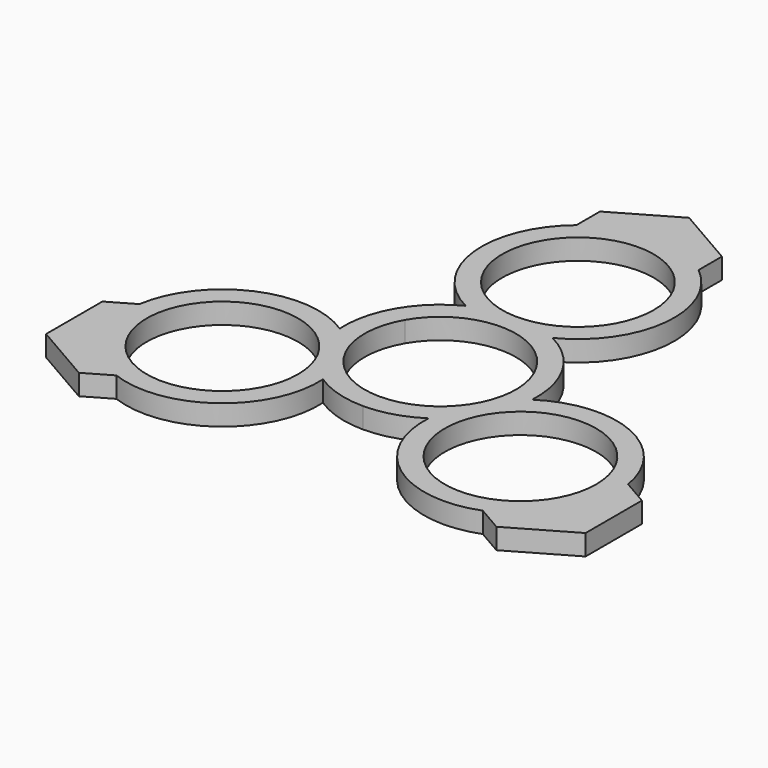
from build123d import *

# Parameters (mm, degrees)
F0_R     = 11
F1_DEPTH = 3


with BuildPart() as f1:
    # F0 (on Top) → F1 (new body)
    with BuildSketch(Plane.XY):
        with BuildLine():
            ThreePointArc((-26.5772530672, -25.6045196536), (-13.359413403, -23.7807642853), (-7.6729374941, -11.710082417))
            ThreePointArc((-7.6729374941, -11.710082417), (-4.0036761959, -13.4153112867), (0, -14))
            ThreePointArc((0, -14), (4.0036761959, -13.4153112867), (7.6729374941, -11.710082417))
            ThreePointArc((7.6729374941, -11.710082417), (13.3895340738, -23.80284079), (26.6470947033, -25.5780499838))
            Line((26.6470947033, -25.5780499838), (30.3253398397, -27.7016858035))
            Line((30.3253398397, -27.7016858035), (39.1819556656, -22.5883162723))
            Line((39.1819556656, -22.5883162723), (39.1819556656, -12.3615772099))
            Line((39.1819556656, -12.3615772099), (35.4627910053, -10.2143164922))
            ThreePointArc((35.4627910053, -10.2143164922), (27.274452694, 0.320790756), (13.9776976005, -0.789917583))
            ThreePointArc((13.9776976005, -0.789917583), (13.6198384719, 3.2403703492), (12.124355653, 7))
            ThreePointArc((12.124355653, 7), (9.616162276, 10.1749409375), (6.3047601065, 12.5))
            ThreePointArc((6.3047601065, 12.5), (13.9190977695, 23.4970970478), (8.8276937136, 35.866085942))
            Line((8.8276937136, 35.866085942), (8.8276937136, 40.1133575813))
            Line((8.8276937136, 40.1133575813), (-0.0289221123, 45.2267271125))
            Line((-0.0289221123, 45.2267271125), (-8.8855379381, 40.1133575813))
            Line((-8.8855379381, 40.1133575813), (-8.8855379381, 35.8188361458))
            ThreePointArc((-8.8855379381, 35.8188361458), (-13.915039291, 23.4599735294), (-6.3047601065, 12.5))
            ThreePointArc((-6.3047601065, 12.5), (-9.616162276, 10.1749409375), (-12.124355653, 7))
            ThreePointArc((-12.124355653, 7), (-13.6198384719, 3.2403703492), (-13.9776976005, -0.789917583))
            ThreePointArc((-13.9776976005, -0.789917583), (-27.3086318433, 0.3057437422), (-35.4747884169, -10.2880359582))
            Line((-35.4747884169, -10.2880359582), (-39.1530335533, -12.4116717778))
            Line((-39.1530335533, -12.4116717778), (-39.1530335533, -22.6384108402))
            Line((-39.1530335533, -22.6384108402), (-30.2964177275, -27.7517803714))
            Line((-30.2964177275, -27.7517803714), (-26.5772530672, -25.6045196536))
        make_face()
        with Locations((-21.6506350946, -12.5)):
            Circle(F0_R, mode=Mode.SUBTRACT)
        with BuildLine():
            ThreePointArc((0, -11), (-9.5262794416, -5.5), (-9.5262794416, 5.5))
            ThreePointArc((-9.5262794416, 5.5), (0, 11), (9.5262794416, 5.5))
            ThreePointArc((9.5262794416, 5.5), (9.5262794416, -5.5), (0, -11))
        make_face(mode=Mode.SUBTRACT)
        with Locations((21.6506350946, -12.5)):
            Circle(F0_R, mode=Mode.SUBTRACT)
        with Locations((0, 25)):
            Circle(F0_R, mode=Mode.SUBTRACT)
    extrude(amount=F1_DEPTH)


solid = f1.part
